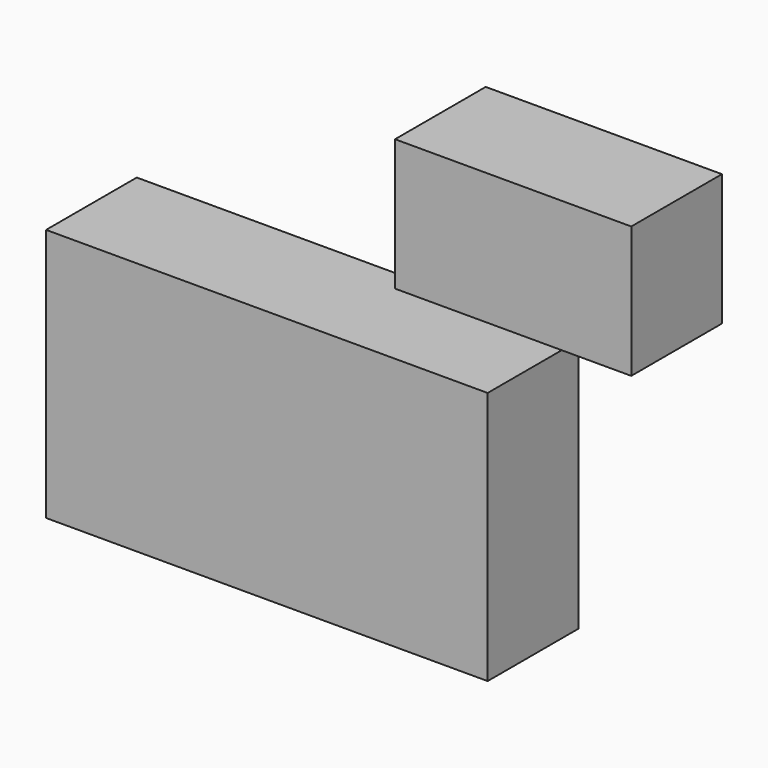
from build123d import *

# Parameters (mm, degrees)
F2_W     = 98.959736
F2_H     = 56.849208
F1_W     = 52.938946
F1_H     = 29.477358
F3_DEPTH = 25.4


with BuildPart() as f3:
    # F2 (on face) + F1 (on Front) → F3 (new body)
    with BuildSketch(Plane.XZ):
        Rectangle(F2_W, F2_H)
    with BuildSketch(Plane.XZ):
        with Locations((55.194866, 56.999609)):
            Rectangle(F1_W, F1_H)
    extrude(amount=F3_DEPTH)


solid = f3.part
